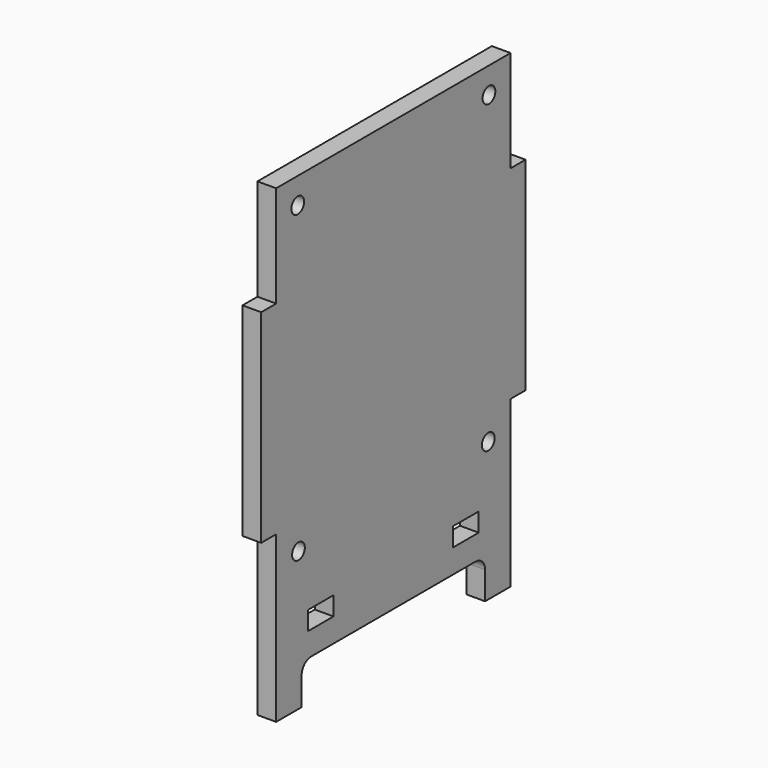
from build123d import *

# Parameters (mm, degrees)
SKETCH015_W             = 8
SKETCH015_H             = 4.7
PAD011_DEPTH            = 4.7
FILLET004_R             = 3
SKETCH018_R             = 2
POCKET_DEPTH            = 4.701
BODY011_PLACEMENT_ANGLE = 90


with BuildPart() as part:
    # Sketch015 → Pad011 (new body)
    with BuildSketch(Plane.XZ):
        Polygon((-41.5, -25.5), (-41.5, 25.5), (-36.8, 25.5), (-36.8, 51), (36.8, 51), (36.8, 25.5), (41.5, 25.5), (41.5, -25.5), (36.8, -25.5), (36.8, -51), (36.8, -67), (28.8, -67), (28.8, -57), (-28.8, -57), (-28.8, -67), (-36.8, -67), (-36.8, -51), (-36.8, -25.5), align=None)
        with Locations((-22.8, -48.65)):
            Rectangle(SKETCH015_W, SKETCH015_H, mode=Mode.SUBTRACT)
        with Locations((22.8, -48.65)):
            Rectangle(SKETCH015_W, SKETCH015_H, mode=Mode.SUBTRACT)
    extrude(amount=PAD011_DEPTH)

    # Fillet004
    fillet004_edges = [part.edges().sort_by_distance(p)[0] for p in [
        (28.8, -2.35, -57),
        (-28.8, -2.35, -57),
    ]]
    fillet(fillet004_edges, radius=FILLET004_R)

    # Sketch018 (on Face2 of Fillet004) → Pocket (cut, through all)
    with BuildSketch(Plane(origin=(0, 0, 0), x_dir=(1, 0, 0), z_dir=(0, 1, 0))):
        with Locations((30.02, -44.49)):
            Circle(SKETCH018_R)
        with Locations((-30.02, -44.49)):
            Circle(SKETCH018_R)
        with Locations((29.8, 32.1)):
            Circle(SKETCH018_R)
        with Locations((-29.8, 32.1)):
            Circle(SKETCH018_R)
    extrude(amount=-POCKET_DEPTH, mode=Mode.SUBTRACT)


with BuildPart() as part_1:
    # Body011 placement: moved
    add(part.part.moved(Location((-41.5, 0, 48))).rotate(Axis((-41.5, 0, 48), (0, 0, 1)), BODY011_PLACEMENT_ANGLE))


with BuildPart() as part_2:
    # Clone placement: moved
    add(part_1.part.moved(Location((2.5, 0, 0))))


with BuildPart() as part_3:
    # Body012 placement: moved
    add(part_2.part.moved(Location((75.8, 0, 0))))


solid = part_3.part
